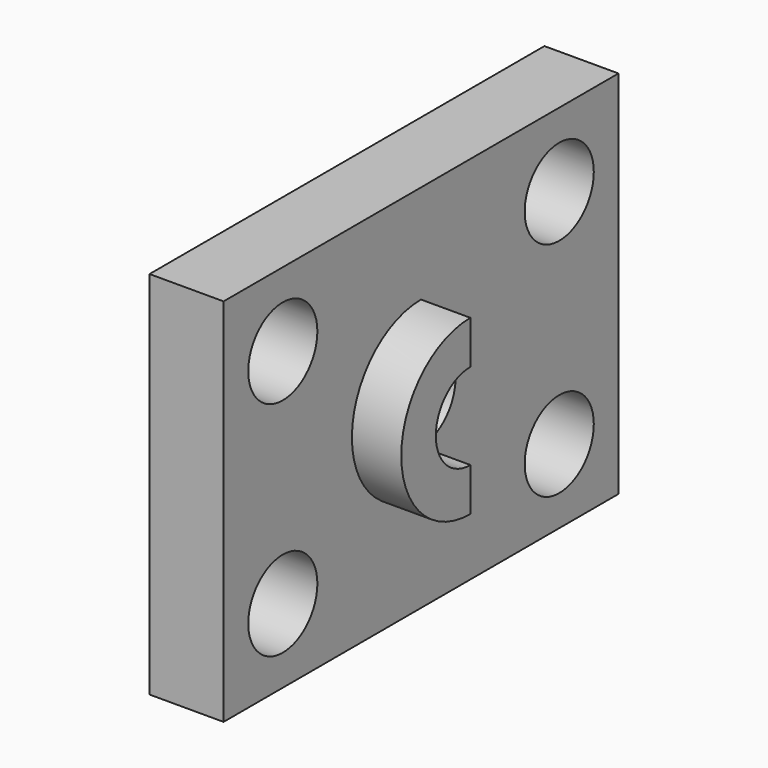
from build123d import *

# Parameters (mm, degrees)
F0_W     = 80
F0_H     = 60
F0_R     = 7
F1_DEPTH = 12
F2_DEPTH = 20


with BuildPart() as f1:
    # F0 (on Right) → F1 (new body)
    with BuildSketch(Plane.YZ):
        with Locations((-40, 30)):
            Rectangle(F0_W, F0_H)
        with Locations((-68, 12)):
            Circle(F0_R, mode=Mode.SUBTRACT)
        with Locations((-12, 12)):
            Circle(F0_R, mode=Mode.SUBTRACT)
        with BuildLine():
            ThreePointArc((-40, 37), (-35.050253, 34.949747), (-33, 30))
            ThreePointArc((-33, 30), (-35.050253, 25.050253), (-40, 23))
            Line((-40, 23), (-40, 16))
            ThreePointArc((-40, 16), (-54, 30), (-40, 44))
            Line((-40, 44), (-40, 37))
        make_face(mode=Mode.SUBTRACT)
        with Locations((-68, 48)):
            Circle(F0_R, mode=Mode.SUBTRACT)
        with Locations((-12, 48)):
            Circle(F0_R, mode=Mode.SUBTRACT)
    extrude(amount=F1_DEPTH)

    # F0 (on Right) → F2 (join)
    with BuildSketch(Plane.YZ):
        with BuildLine():
            ThreePointArc((-40, 23), (-47, 30), (-40, 37))
            Line((-40, 37), (-40, 44))
            ThreePointArc((-40, 44), (-54, 30), (-40, 16))
            Line((-40, 16), (-40, 23))
        make_face()
    extrude(amount=F2_DEPTH)


solid = f1.part
